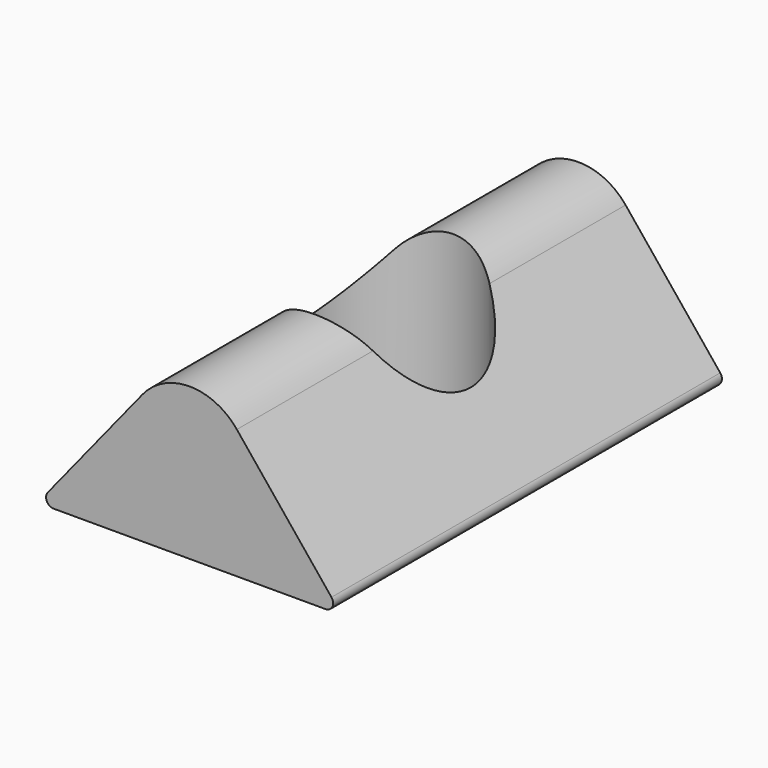
from build123d import *

# Parameters (mm, degrees)
F1_DEPTH = 16
F2_R     = 2.8575
F3_DEPTH = 5.001


with BuildPart() as f1:
    # F0 (on Front) → F1 (new body)
    with BuildSketch(Plane.XZ):
        with BuildLine():
            ThreePointArc((-4.670489, 0.407251), (-4.701763, 0.142326), (-4.476139, 0))
            Line((-4.476139, 0), (4.476139, 0))
            ThreePointArc((4.476139, 0), (4.701763, 0.142326), (4.670489, 0.407251))
            Line((4.670489, 0.407251), (1.554805, 4.258008))
            ThreePointArc((1.554805, 4.258008), (0, 5), (-1.554805, 4.258008))
            Line((-1.554805, 4.258008), (-4.670489, 0.407251))
        make_face()
    extrude(amount=F1_DEPTH)

    # F2 (on face) → F3 (cut, through all)
    with BuildSketch(Plane(origin=(0, 0, 0), x_dir=(1, 0, 0), z_dir=(0, 0, -1))):
        with Locations((0, 8)):
            Circle(F2_R)
    extrude(amount=-F3_DEPTH, mode=Mode.SUBTRACT)


solid = f1.part
